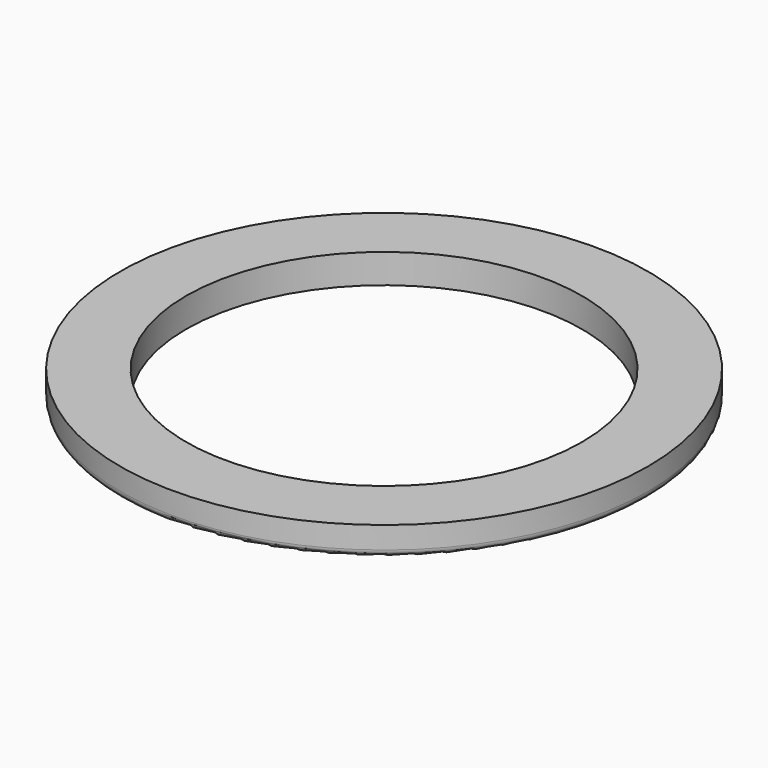
from build123d import *

# Parameters (mm, degrees)
CYLINDER002_R       = 13.5
CYLINDER002_DEPTH   = 2
CYLINDER001_R       = 18
CYLINDER001_DEPTH   = 2
CUT_PLACEMENT_ANGLE = 180
FILLET_R            = 0.5


with BuildPart() as cylinder002:
    # Cylinder002 → Cylinder002 (new body)
    with BuildSketch(Plane.XY):
        Circle(CYLINDER002_R)
    extrude(amount=CYLINDER002_DEPTH)


with BuildPart() as fillet_body:
    # Cylinder001 → Cylinder001 (new body)
    with BuildSketch(Plane.XY):
        Circle(CYLINDER001_R)
    extrude(amount=CYLINDER001_DEPTH)

    # Cut: cut Cylinder002
    add(cylinder002.part, mode=Mode.SUBTRACT)


with BuildPart() as fillet_body_1:
    # Cut placement: moved
    add(fillet_body.part.moved(Location((0, 0, 2))).rotate(Axis((0, 0, 2), (1, 0, 0)), CUT_PLACEMENT_ANGLE))

    # Fillet
    fillet_edges = [fillet_body_1.edges().sort_by_distance(p)[0] for p in [
        (-18, 0, 0),
    ]]
    fillet(fillet_edges, radius=FILLET_R)


solid = fillet_body_1.part
